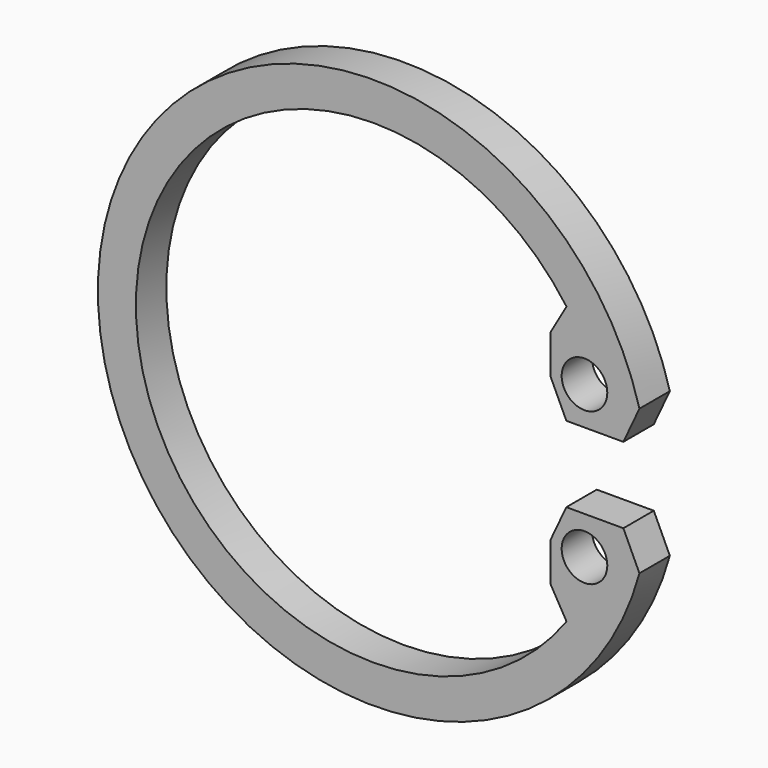
from build123d import *

# Parameters (mm, degrees)
F0_R     = 0.6
F1_DEPTH = 0.5


with BuildPart() as f1:
    # F0 (on Front) → F1 (new body, symmetric)
    with BuildSketch(Plane.XZ):
        with BuildLine():
            Line((6.572272, 1), (6.99489, 1.906308))
            ThreePointArc((6.99489, 1.906308), (-7.25, 0), (6.99489, -1.906308))
            Line((6.99489, -1.906308), (6.572272, -1))
            Line((6.572272, -1), (5.072272, -1))
            Line((5.072272, -1), (4.649654, -1.906308))
            Line((4.649654, -1.906308), (4.649654, -2.906308))
            Line((4.649654, -2.906308), (5.076546, -3.645707))
            ThreePointArc((5.076546, -3.645707), (-6.25, 0), (5.076546, 3.645707))
            Line((5.076546, 3.645707), (4.649654, 2.906308))
            Line((4.649654, 2.906308), (4.649654, 1.906308))
            Line((4.649654, 1.906308), (5.072272, 1))
            Line((5.072272, 1), (6.572272, 1))
        make_face()
        with Locations((5.549654, -2)):
            Circle(F0_R, mode=Mode.SUBTRACT)
        with Locations((5.549654, 2)):
            Circle(F0_R, mode=Mode.SUBTRACT)
    extrude(amount=F1_DEPTH, both=True)


solid = f1.part
